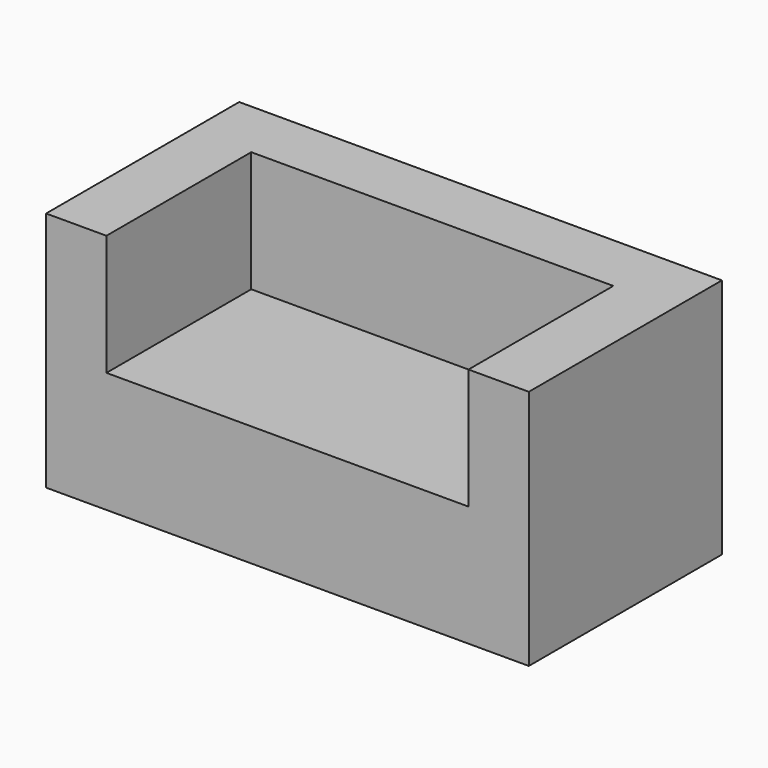
from build123d import *

# Parameters (mm, degrees)
F0_W     = 203.2
F0_H     = 101.6
F1_DEPTH = 101.6
F2_W     = 152.4
F2_H     = 76.2
F3_DEPTH = 76.2
F4_DEPTH = 25.4


with BuildPart() as f1:
    # F0 (on Top) → F1 (new body)
    with BuildSketch(Plane.XY):
        with Locations((-40.9295770168, 34.3266843438)):
            Rectangle(F0_W, F0_H)
    extrude(amount=F1_DEPTH)

    # F2 (on face) → F3 (cut)
    with BuildSketch(Plane.XY.offset(101.6)):
        with Locations((-40.9295770168, 21.6266843438)):
            Rectangle(F2_W, F2_H)
    extrude(amount=-F3_DEPTH, mode=Mode.SUBTRACT)

    # F4 (add): a face of the model
    f4_faces = [f1.faces().sort_by_distance(p)[0] for p in [
        (-40.9295770168, 21.6266843438, 25.4),
    ]]
    extrude(f4_faces, amount=F4_DEPTH)


solid = f1.part
